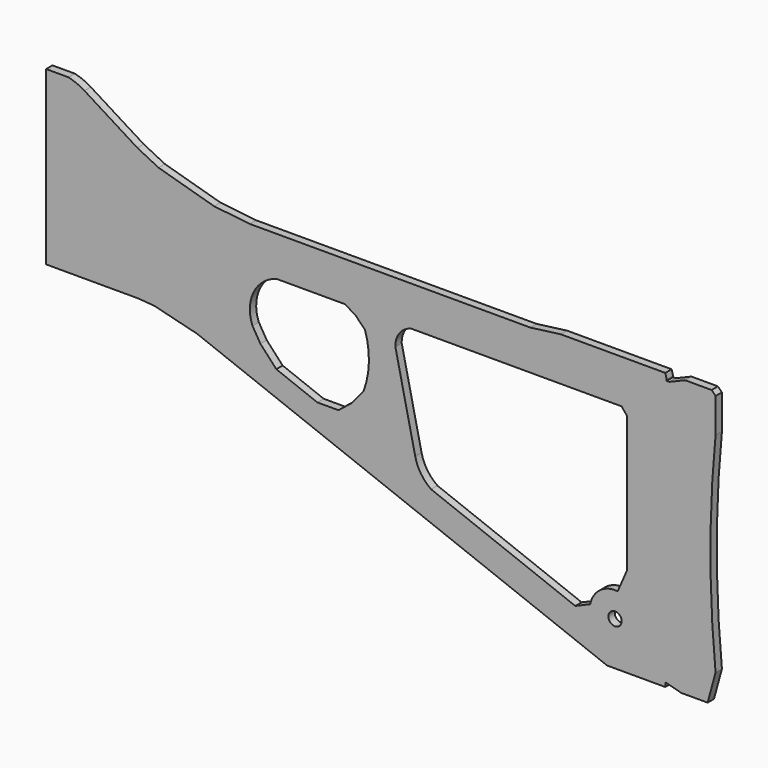
from build123d import *

# Parameters (mm, degrees)
F0_R     = 2.5
F1_DEPTH = 3


with BuildPart() as f1:
    # F0 (on Front) → F1 (new body)
    with BuildSketch(Plane.XZ):
        with BuildLine():
            Line((8.5, 0), (0, 0))
            Line((0, 0), (0, -65))
            Line((0, -65), (35, -65))
            Line((35, -65), (41, -65.5))
            Line((41, -65.5), (57, -69.5))
            Line((57, -69.5), (212, -129.5))
            Line((212, -129.5), (234, -129.5))
            Line((234, -129.5), (234, -128))
            Line((234, -128), (234.5, -128))
            Line((234.5, -128), (240, -129.5))
            Line((240, -129.5), (250, -129.5))
            Line((250, -129.5), (253, -118.5))
            ThreePointArc((253, -118.5), (251.054419, -79), (253, -39.5))
            Line((253, -39.5), (253, -26.5))
            Line((253, -26.5), (251.5, -25))
            Line((251.5, -25), (241.5, -25))
            Line((241.5, -25), (235.5, -27.5))
            Line((235.5, -27.5), (234.5, -27.5))
            Line((234.5, -27.5), (234.5, -27))
            Line((234.5, -27), (234, -25))
            Line((234, -25), (194.5, -25))
            Line((194.5, -25), (183, -26.5))
            Line((183, -26.5), (77, -26.5))
            Line((77, -26.5), (63.5, -25))
            Line((63.5, -25), (42.5, -19))
            Line((42.5, -19), (34.5, -15))
            Line((34.5, -15), (14.5, -2.5))
            ThreePointArc((14.5, -2.5), (11.60261, -1.003737), (8.5, 0))
        make_face()
        with Locations((215, -113)):
            Circle(F0_R, mode=Mode.SUBTRACT)
        with BuildLine():
            ThreePointArc((132, -49.5), (133.55949, -44.419617), (138, -41.5))
            Line((138, -41.5), (217.5, -41.5))
            Line((217.5, -41.5), (219.5, -44))
            Line((219.5, -44), (219.5, -95.5))
            Line((219.5, -95.5), (216, -103.5))
            ThreePointArc((216, -103.5), (209.316238, -105.322445), (205.621916, -111.182987))
            Line((205.621916, -111.182987), (200, -113.596774))
            Line((200, -113.596774), (145.5, -92.5))
            ThreePointArc((145.5, -92.5), (141.655795, -88.562803), (139.5, -83.5))
            Line((139.5, -83.5), (132, -49.5))
        make_face(mode=Mode.SUBTRACT)
        with BuildLine():
            ThreePointArc((78, -60.072163), (78.396416, -48.7975), (87, -41.5))
            Line((87, -41.5), (113, -41.5))
            Line((113, -41.5), (117, -44))
            Line((117, -44), (120.5, -47.5))
            ThreePointArc((120.5, -47.5), (121.990844, -57.828392), (120, -68.072163))
            Line((120, -68.072163), (115.5, -73.572163))
            Line((115.5, -73.572163), (110.5, -77.572163))
            Line((110.5, -77.572163), (102.5, -77.572163))
            Line((102.5, -77.572163), (87, -71.572163))
            Line((87, -71.572163), (81, -65.072163))
            Line((81, -65.072163), (78, -60.072163))
        make_face(mode=Mode.SUBTRACT)
    extrude(amount=F1_DEPTH)


solid = f1.part
